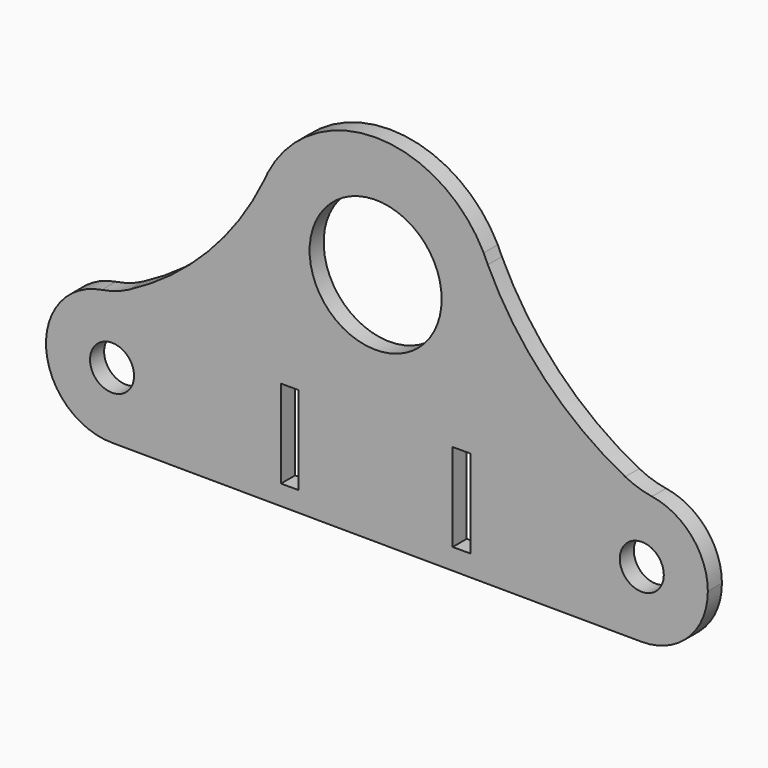
from build123d import *

# Parameters (mm, degrees)
F0_R     = 10
F0_W     = 8
F0_H     = 40
F0_R_2   = 30
F1_DEPTH = 8
F2_R     = 40


with BuildPart() as f1:
    # F0 (on Front) → F1 (new body)
    with BuildSketch(Plane.XZ):
        with BuildLine():
            ThreePointArc((-118.825361, -51.870755), (-97.612157, -43.083959), (-88.825361, -21.870755))
            ThreePointArc((-88.825361, -21.870755), (-97.612157, -0.657552), (-118.825361, 8.129245))
            ThreePointArc((-118.825361, 8.129245), (-148.825361, -21.870755), (-118.825361, -51.870755))
        make_face()
        with Locations((-118.825361, -21.870755)):
            Circle(F0_R, mode=Mode.SUBTRACT)
        with BuildLine():
            ThreePointArc((-118.825361, 8.129245), (-97.612157, -0.657552), (-88.825361, -21.870755))
            ThreePointArc((-88.825361, -21.870755), (-97.612157, -43.083959), (-118.825361, -51.870755))
            Line((-118.825361, -51.870755), (121.535592, -53.234036))
            ThreePointArc((121.535592, -53.234036), (91.876372, -23.065815), (121.87589, 6.764034))
            ThreePointArc((121.87589, 6.764034), (80.764156, 34.521015), (51.912313, 74.871923))
            ThreePointArc((51.912313, 74.871923), (54.92108, 64.740607), (55.9365, 54.220856))
            ThreePointArc((55.9365, 54.220856), (-9.899421, 0.298849), (-49.793784, 75.467933))
            ThreePointArc((-49.793784, 75.467933), (-78.328518, 35.667172), (-118.825361, 8.129245))
        make_face()
        with Locations((-38.0635, -23.235966)):
            Rectangle(F0_W, F0_H, mode=Mode.SUBTRACT)
        with Locations((39.9365, -23.235966)):
            Rectangle(F0_W, F0_H, mode=Mode.SUBTRACT)
        with BuildLine():
            ThreePointArc((-48.154233, 79.022065), (-48.961587, 77.239269), (-49.793784, 75.467933))
            ThreePointArc((-49.793784, 75.467933), (-9.899421, 0.298849), (55.9365, 54.220856))
            ThreePointArc((55.9365, 54.220856), (54.92108, 64.740607), (51.912313, 74.871923))
            ThreePointArc((51.912313, 74.871923), (50.952881, 76.939321), (50.027233, 79.022065))
            ThreePointArc((50.027233, 79.022065), (0.9365, 109.220856), (-48.154233, 79.022065))
        make_face()
        with Locations((0.9365, 54.220856)):
            Circle(F0_R_2, mode=Mode.SUBTRACT)
        with BuildLine():
            ThreePointArc((121.87589, 6.764034), (91.876372, -23.065815), (121.535592, -53.234036))
            Line((121.535592, -53.234036), (121.87589, -53.235966))
            ThreePointArc((121.87589, -53.235966), (143.089093, -44.44917), (151.87589, -23.235966))
            ThreePointArc((151.87589, -23.235966), (143.089093, -2.022763), (121.87589, 6.764034))
        make_face()
        with Locations((121.87589, -23.235966)):
            Circle(F0_R, mode=Mode.SUBTRACT)
    extrude(amount=F1_DEPTH)

    # F2
    f2_edges = [f1.edges().sort_by_distance(p)[0] for p in [
        (-118.825361, -4, 8.129245),
        (121.87589, -4, 6.764034),
    ]]
    fillet(f2_edges, radius=F2_R)


solid = f1.part
